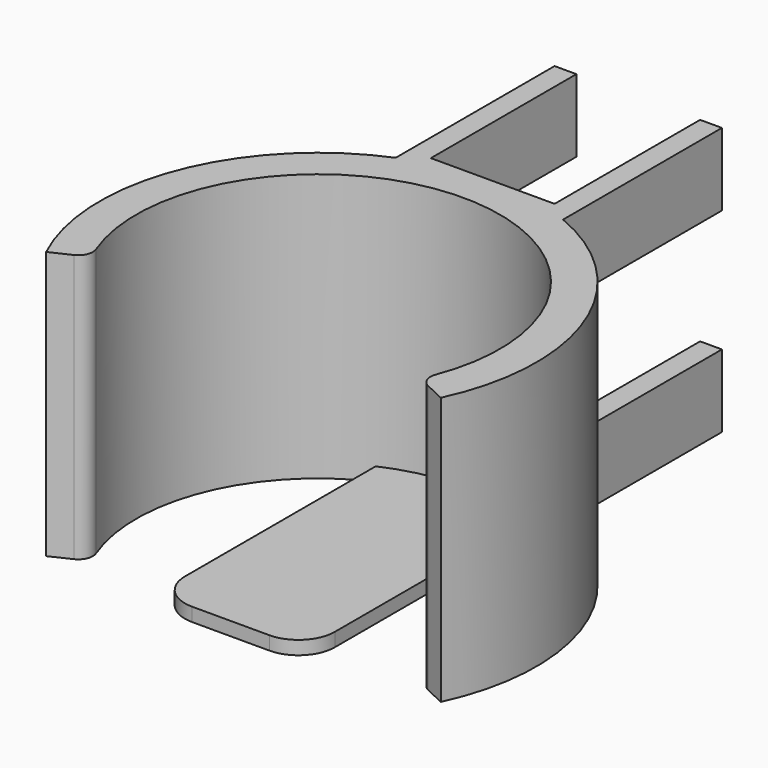
from build123d import *

# Parameters (mm, degrees)
F1_DEPTH      = 10
F3_DEPTH      = 16.8
F3_DEPTH_BACK = 10
F5_DEPTH      = 10
F6_DEPTH      = 10
F7_R          = 2
F9_DEPTH      = 40
F10_R         = 5


with BuildPart() as f1:
    # F0 (on Top) → F1 (new body)
    with BuildSketch(Plane.XY):
        Polygon((-11.5, 0), (0, 0), (11.5, 0), (11.5, 30), (8.5, 30), (8.5, 5), (0, 5), (-8.5, 5), (-8.5, 30), (-11.5, 30), align=None)
    extrude(amount=F1_DEPTH)

    # F2 (on face) → F3 (join, two sides)
    with BuildSketch(Plane.XY.offset(10)) as f3_sk:
        with BuildLine():
            Line((0, 0), (-11.5, 0))
            Line((-11.5, 0), (-11.5, 2.708302005))
            ThreePointArc((-11.5, 2.708302005), (-27.9927354573, -14.2108034768), (-27.1216874277, -37.8224050425))
            Line((-27.1216874277, -37.8224050425), (-22.6014061897, -35.6853375354))
            ThreePointArc((-22.6014061897, -35.6853375354), (-21.1202916455, -11.6234054854), (0, 0))
        make_face()
        with BuildLine():
            Line((-11.5, 2.708302005), (-11.5, 0))
            Line((-11.5, 0), (0, 0))
            Line((0, 0), (11.5, 0))
            Line((11.5, 0), (11.5, 2.708302005))
            ThreePointArc((11.5, 2.708302005), (5.863059775, 4.4214977538), (0, 5))
            ThreePointArc((0, 5), (-5.863059775, 4.4214977538), (-11.5, 2.708302005))
        make_face()
        with BuildLine():
            Line((11.5, 0), (0, 0))
            ThreePointArc((0, 0), (21.1202916455, -11.6234054854), (22.6014061897, -35.6853375354))
            Line((22.6014061897, -35.6853375354), (27.1216874277, -37.8224050425))
            ThreePointArc((27.1216874277, -37.8224050425), (27.9927354573, -14.2108034768), (11.5, 2.708302005))
            Line((11.5, 2.708302005), (11.5, 0))
        make_face()
        with BuildLine():
            Line((-11.5, 5), (-11.5, 2.708302005))
            ThreePointArc((-11.5, 2.708302005), (-5.863059775, 4.4214977538), (0, 5))
            Line((0, 5), (-8.5, 5))
            Line((-8.5, 5), (-11.5, 5))
        make_face()
        with BuildLine():
            Line((8.5, 5), (0, 5))
            ThreePointArc((0, 5), (5.863059775, 4.4214977538), (11.5, 2.708302005))
            Line((11.5, 2.708302005), (11.5, 5))
            Line((11.5, 5), (8.5, 5))
        make_face()
    extrude(amount=F3_DEPTH)
    extrude(f3_sk.sketch, amount=-F3_DEPTH_BACK)

    # F4 (on face) → F5 (join)
    with BuildSketch(Plane.XY.offset(26.8)):
        Polygon((-11.5, 0), (0, 0), (11.5, 0), (11.5, 30), (8.5, 30), (8.5, 5), (0, 5), (-8.5, 5), (-8.5, 30), (-11.5, 30), align=None)
    extrude(amount=F5_DEPTH)

    # F6 (add, through all): faces of the model
    f6_faces = [f1.faces().sort_by_distance(p)[0] for p in [
        (-27.5222189006, -14.392153942, 26.8),
        (27.5222189006, -14.392153942, 26.8),
    ]]
    extrude(f6_faces, amount=F6_DEPTH)

    # F7
    f7_edges = [f1.edges().sort_by_distance(p)[0] for p in [
        (22.601406, -35.685338, 18.4),
        (-22.601406, -35.685338, 18.4),
    ]]
    fillet(f7_edges, radius=F7_R)

    # F8 (on Front) → F9 (join)
    with BuildSketch(Plane.XZ):
        Polygon((-10.3041492403, 0), (0, 0), (10.3041492403, 0), (10.3041492403, 1.8631997518), (0, 1.8631997518), (-10.3041492403, 1.8631997518), align=None)
    extrude(amount=F9_DEPTH)

    # F10
    f10_edges = [f1.edges().sort_by_distance(p)[0] for p in [
        (-10.304149, -40, 0.9316),
        (10.304149, -40, 0.9316),
    ]]
    fillet(f10_edges, radius=F10_R)


solid = f1.part
